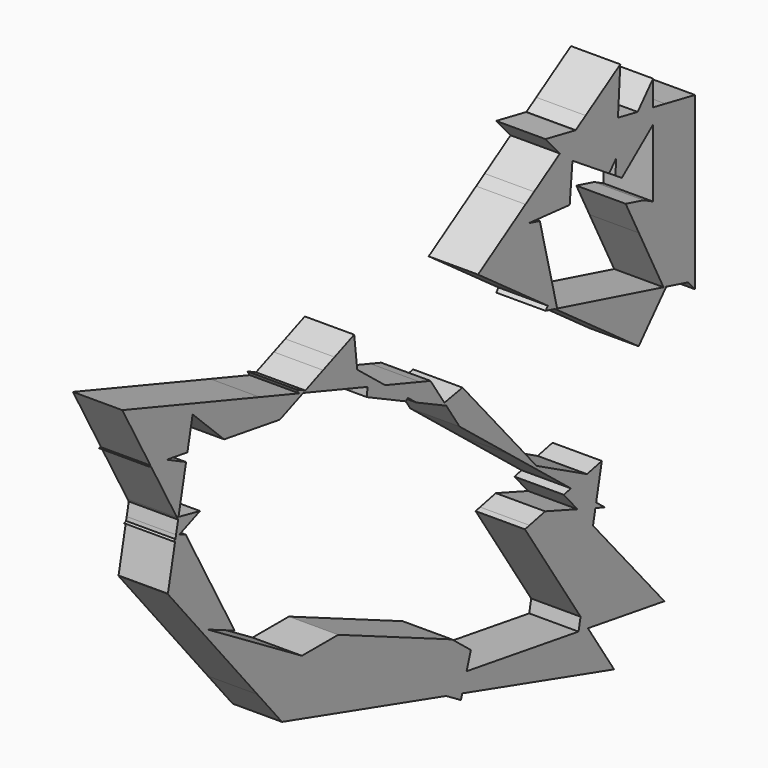
from build123d import *

# Parameters (mm, degrees)
F1_DEPTH = 25.4
F3_DEPTH = 25.4


with BuildPart() as f1:
    # F0 (on Right) → F1 (new body)
    with BuildSketch(Plane.YZ):
        Polygon((39.4073710901, 10.7613735016), (32.5089133342, 13.1042615165), (24.9297516677, 8.9329942935), (30.2431357458, 4.6929819052), (46.4605966165, -3.132016269), (48.3558355785, -2.7815361279), align=None)
        Polygon((24.9297516677, 8.9329942935), (32.5089133342, 13.1042615165), (10.2135774235, 20.6763127113), align=None)
        Polygon((23.3068083269, 8.0397912375), (24.9297516677, 8.9329942935), (10.2135774235, 20.6763127113), (-1.1689106362, 24.5420890628), (-1.222905109, 23.743330227), (-1.4761048743, 19.9976588776), align=None)
        Polygon((-1.1689106362, 24.5420890628), (10.2135774235, 20.6763127113), (-0.8342821813, 29.4923630665), align=None)
        Polygon((-1.1689106362, 24.5420890628), (-0.8342821813, 29.4923630665), (-7.7347625359, 34.9988579404), (-6.7200334005, 26.4273885679), align=None)
        Polygon((49.5828269857, -4.6385065349), (48.3558355785, -2.7815361279), (46.4605966165, -3.132016269), align=None)
        Polygon((59.9696205611, -0.6338380901), (48.3558355785, -2.7815361279), (49.5828269857, -4.6385065349), (73.4443388703, -16.151793875), align=None)
        Polygon((-22.3268482951, 46.6431553377), (-7.7347625359, 34.9988579404), (-9.7094774246, 51.6793765128), align=None)
        Polygon((-6.7200334005, 26.4273885679), (-7.7347625359, 34.9988579404), (-22.3268482951, 46.6431553377), (-29.7137589349, 43.6946713656), (-24.2543756572, 32.3824877764), align=None)
        Polygon((73.4443388703, -16.151793875), (49.5828269857, -4.6385065349), (58.1108375432, -17.5450869263), (90.3166132239, -43.2448831119), (92.0996528139, -37.6359043615), align=None)
        Polygon((-34.01231224, 35.6965259976), (-24.2543756572, 32.3824877764), (-29.7137589349, 43.6946713656), (-41.1379831843, 39.1346944367), align=None)
        Polygon((92.0996528139, -37.6359043615), (90.3166132239, -43.2448831119), (101.9672765147, -52.541963082), (107.5895469178, -55.474606908), align=None)
        Polygon((-42.516093666, 38.5846219009), (-34.01231224, 35.6965259976), (-41.1379831843, 39.1346944367), align=None)
        Polygon((107.5895469178, -55.474606908), (101.9672765147, -52.541963082), (111.9833428928, -60.5346556677), align=None)
        Polygon((-42.516093666, 38.5846219009), (-41.1379831843, 39.1346944367), (-46.8339137733, 41.8830066919), (-45.1780543516, 39.4886900285), align=None)
        Polygon((-44.1122193164, 37.9475286522), (-42.516093666, 38.5846219009), (-45.1780543516, 39.4886900285), align=None)
        Polygon((140.1136179952, -72.4395533447), (107.5895469178, -55.474606908), (111.9833428928, -60.5346556677), (129.7573621524, -74.7180952129), align=None)
        Polygon((-57.5283219223, 32.5924938574), (-44.1122193164, 37.9475286522), (-45.1780543516, 39.4886900285), (-70.5856886666, 48.1177552528), (-63.9903102066, 33.6080833858), align=None)
        Polygon((149.6590868927, -70.339397568), (140.1136179952, -72.4395533447), (148.3167406935, -76.7184007516), align=None)
        Polygon((148.3167406935, -76.7184007516), (140.1136179952, -72.4395533447), (129.7573621524, -74.7180952129), (146.0087098869, -87.6864623983), align=None)
        Polygon((146.0087098869, -87.6864623983), (129.7573621524, -74.7180952129), (125.1747520192, -75.726342712), (133.9523863171, -85.8349726518), (145.5221718237, -89.9985543582), align=None)
        Polygon((-63.9903102066, 33.6080833858), (-70.5856886666, 48.1177552528), (-158.9251944029, 78.1200509185), (-140.788956998, 45.6780374064), (-130.242397169, 44.0205017918), (-117.0374682699, 41.9451672473), (-113.6579215527, 57.8182153404), (-93.3965852546, 38.2296802833), align=None)
        Polygon((151.6856447369, -92.2165836427), (146.0087098869, -87.6864623983), (145.5221718237, -89.9985543582), align=None)
        Polygon((133.9523863171, -85.8349726518), (113.1898287308, -78.3632174584), (103.0944412703, -80.5843641115), (100.1866939883, -81.2241150046), (135.9719039821, -135.3826654064), (143.9705200066, -97.3722049763), align=None)
        Polygon((145.5221718237, -89.9985543582), (133.9523863171, -85.8349726518), (143.9705200066, -97.3722049763), align=None)
        Polygon((189.9116674498, -150.2796334191), (143.9705200066, -97.3722049763), (135.9719039821, -135.3826654064), (140.7051781089, -142.5461629912), align=None)
        Polygon((-130.242397169, 44.0205017918), (-140.788956998, 45.6780374064), (-140.4103454299, 45.0007788696), (-118.6108332804, 34.5553896913), (-117.8940894802, 37.9217905028), align=None)
        Polygon((-140.4103454299, 45.0007788696), (-140.788956998, 45.6780374064), (-142.3288772839, 45.9200568667), align=None)
        Polygon((140.7051781089, -142.5461629912), (135.9719039821, -135.3826654064), (134.6642617875, -141.5967506605), align=None)
        Polygon((-118.6108332804, 34.5553896913), (-140.4103454299, 45.0007788696), (-123.7757925155, 15.2449712912), (-122.7679218686, 15.0303845328), align=None)
        Polygon((157.5321683144, -168.0127006283), (140.7051781089, -142.5461629912), (134.6642617875, -141.5967506605), (79.2779969723, -132.8920442936), (103.0574570546, -151.9392119201), align=None)
        Polygon((-122.7679218686, 15.0303845328), (-123.7757925155, 15.2449712912), (-123.0128165671, 13.880163615), align=None)
        Polygon((103.0574570546, -151.9392119201), (79.2779969723, -132.8920442936), (62.6494319525, -130.2786386725), (59.8193812369, -139.1812420779), align=None)
        Polygon((-108.9159250339, 12.0811418823), (-122.7679218686, 15.0303845328), (-123.0128165671, 13.880163615), (-119.6188585673, 7.8090680051), align=None)
        Polygon((-119.6188585673, 7.8090680051), (-123.0128165671, 13.880163615), (-124.3541446238, 7.580216748), (-122.2710626701, 6.7504412436), align=None)
        Polygon((62.6494319525, -130.2786386725), (65.3620428668, -121.7454703339), (53.2025559798, -112.0058133279), (21.9878875886, -98.4291027072), (-19.9804436727, -80.1751241088), (-43.3675872791, -80.1751241088), (49.4200160338, -136.1127709415), (59.8193812369, -139.1812420779), align=None)
        Polygon((-122.2710626701, 6.7504412436), (-124.3541446238, 7.580216748), (-124.7406902911, 5.76468985), align=None)
        Polygon((58.9654996082, -141.8673315722), (59.8193812369, -139.1812420779), (49.4200160338, -136.1127709415), align=None)
        Polygon((-118.0976969364, 5.0880214572), (-122.2710626701, 6.7504412436), (-124.7406902911, 5.76468985), (-124.9381516575, 4.8372537093), (-116.108420104, 1.529612707), align=None)
        Polygon((-124.9381516575, 4.8372537093), (-124.7406902911, 5.76468985), (-126.0349099858, 5.2481023058), align=None)
        Polygon((-56.1404097384, -104.9657621289), (49.4200160338, -136.1127709415), (-43.3675872791, -80.1751241088), (-65.8273250908, -66.6351162111), (-71.9922287598, -86.0282995543), align=None)
        Polygon((-110.0376887171, -9.3296821557), (-116.108420104, 1.529612707), (-124.9381516575, 4.8372537093), (-129.587407974, -16.9993638265), (-99.6067174554, -27.9885529602), align=None)
        Polygon((-129.6251811398, -17.1767767546), (-129.587407974, -16.9993638265), (-129.8561379403, -16.9008629456), align=None)
        Polygon((-99.6067174554, -27.9885529602), (-129.587407974, -16.9993638265), (-129.6251811398, -17.1767767546), (-71.9922287598, -86.0282995543), (-65.8273250908, -66.6351162111), (-84.1907179332, -55.5646181403), (-103.948444128, -43.653536588), (-86.6411600678, -51.1812791342), (-95.4205706262, -35.4767121061), align=None)
    extrude(amount=F1_DEPTH)


with BuildPart() as f3:
    # F2 (on Right) → F3 (new body)
    with BuildSketch(Plane.YZ):
        Polygon((182.6326102018, 49.1656479155), (182.6326102018, 39.6044664085), (182.6326102018, 35.2749967557), (209.6393406391, 28.1037189108), (209.6393406391, 46.6781857364), align=None)
        Polygon((182.6326102018, 68.7096794922), (182.6326102018, 49.1656479155), (209.6393406391, 46.6781857364), (209.6393406391, 71.1466726798), (190.4628341321, 74.9526959447), align=None)
        Polygon((209.6393406391, 28.1037189108), (182.6326102018, 35.2749967557), (182.6326102018, 33.8075737448), (176.5059347614, 36.9018538812), (165.0003189524, 39.9570170353), (173.4916588605, 23.3289209383), (196.4655467816, -2.2647932405), (209.6393406391, 12.4165520464), align=None)
        Polygon((158.4095897006, 55.386132115), (162.5435971477, 52.6927634844), (182.6326102018, 68.7096794922), (182.6326102018, 76.5067858118), (172.7050465336, 78.4771414796), (158.8987850052, 63.090951684), align=None)
        Polygon((182.6326102018, 76.5067858118), (182.6326102018, 68.7096794922), (190.4628341321, 74.9526959447), align=None)
        Polygon((172.7050465336, 78.4771414796), (182.6326102018, 76.5067858118), (182.6326102018, 89.5407721731), align=None)
        Polygon((209.6393406391, -13.1311215666), (209.6393406391, 12.4165520464), (196.4655467816, -2.2647932405), (205.1493626653, -11.9388676711), align=None)
        Polygon((155.2584235223, 59.0340031332), (158.8987850052, 63.090951684), (160.0353438442, 80.9917383473), (142.24203746, 84.5232334105), align=None)
        Polygon((160.0353438442, 80.9917383473), (158.8987850052, 63.090951684), (172.7050465336, 78.4771414796), align=None)
        Polygon((209.6393406391, -16.9408600777), (209.6393406391, -13.1311215666), (205.1493626653, -11.9388676711), align=None)
        Polygon((191.1261623851, -8.2151934664), (196.4655467816, -2.2647932405), (173.4916588605, 23.3289209383), (189.3606414498, -7.7463828787), align=None)
        Polygon((205.1493626653, -11.9388676711), (196.4655467816, -2.2647932405), (191.1261623851, -8.2151934664), align=None)
        Polygon((130.7550188197, 73.4035050054), (154.3553188702, 58.0275511291), (155.2584235223, 59.0340031332), (142.24203746, 84.5232334105), (132.8412715433, 86.3890338249), (131.8958162431, 85.7893047802), align=None)
        Polygon((142.24203746, 84.5232334105), (160.0353438442, 80.9917383473), (161.5336090326, 104.589395225), (139.2222647451, 90.4366783365), align=None)
        Polygon((173.350011706, -28.0255691877), (191.1261623851, -8.2151934664), (189.3606414498, -7.7463828787), (120.9215474918, 10.426707691), (121.1193015164, 9.6438529898), align=None)
        Polygon((130.5491515757, 71.1683750762), (130.7550188197, 73.4035050054), (131.8958162431, 85.7893047802), (122.6751000902, 79.9403436625), align=None)
        Polygon((132.8412715433, 86.3890338249), (142.24203746, 84.5232334105), (139.2222647451, 90.4366783365), align=None)
        Polygon((121.1193015164, 9.6438529898), (120.9215474918, 10.426707691), (119.5165297261, 10.7997914598), align=None)
        Polygon((119.5165297261, 10.7997914598), (120.9215474918, 10.426707691), (118.8831637772, 18.4961175402), (114.9393053821, 14.1009412161), align=None)
        Polygon((122.6751000902, 79.9403436625), (131.8958162431, 85.7893047802), (131.9670358532, 86.5625462096), (113.4278774261, 90.2420729399), align=None)
        Polygon((131.9670358532, 86.5625462096), (131.8958162431, 85.7893047802), (132.8412715433, 86.3890338249), align=None)
        Polygon((129.5760975213, 60.6037889011), (130.5491515757, 71.1683750762), (122.6751000902, 79.9403436625), (106.0292229683, 69.381392878), (109.4327523501, 55.9077405336), (128.9777589912, 54.107542434), align=None)
        Polygon((113.4278774261, 12.4165520464), (119.5165297261, 10.7997914598), (114.9393053821, 14.1009412161), align=None)
        Polygon((114.9393053821, 14.1009412161), (118.8831637772, 18.4961175402), (109.7564548376, 54.6262899306), (102.5395625172, 56.5426396393), (100.9748271614, 56.6867600105), (102.5395625172, 23.0437862813), align=None)
        Polygon((109.4327523501, 55.9077405336), (106.0292229683, 69.381392878), (100.5461641487, 65.9033335484), (100.9748271614, 56.6867600105), (102.5395625172, 56.5426396393), align=None)
        Polygon((69.9886954974, 46.519866686), (102.5395625172, 23.0437862813), (100.9748271614, 56.6867600105), (100.5461641487, 65.9033335484), align=None)
    extrude(amount=F3_DEPTH)


solid = Compound([f1.part, f3.part])
